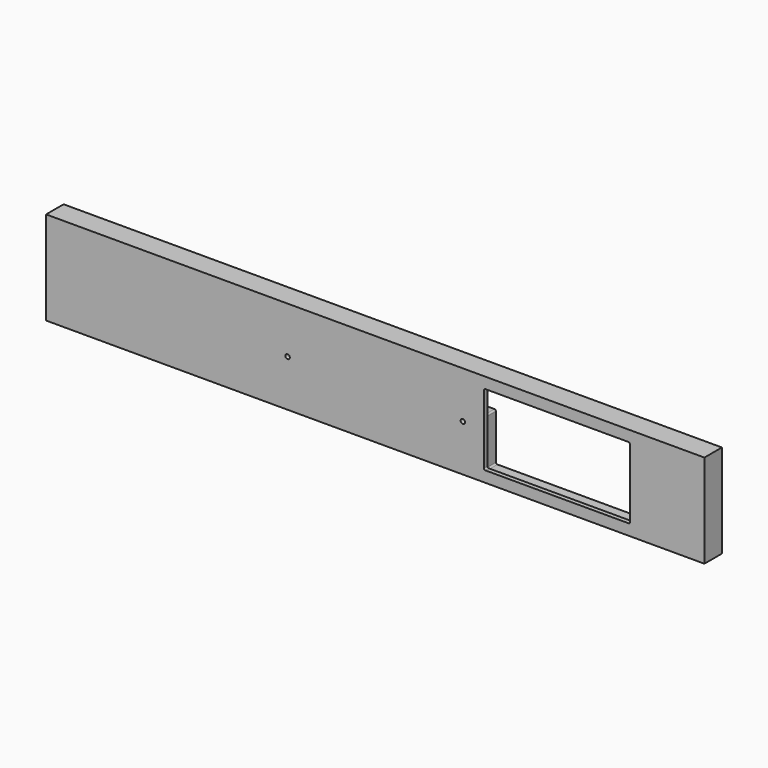
from build123d import *

# Parameters (mm, degrees)
SKETCH_W        = 450.8
SKETCH_H        = 64
SKETCH_R        = 1.5
PAD_DEPTH       = 15
POCKET_DEPTH    = 12
POCKET001_DEPTH = 7.5
SKETCH003_R     = 1.5
HOLE_DEPTH      = 7.5
HOLE_TIPS_R     = 1.5


with BuildPart() as part:
    # Sketch → Pad (new body)
    with BuildSketch(Plane.XZ):
        with Locations((225.4, 32)):
            Rectangle(SKETCH_W, SKETCH_H)
        with Locations((165.4, 32)):
            Circle(SKETCH_R, mode=Mode.SUBTRACT)
        with Locations((285.4, 32)):
            Circle(SKETCH_R, mode=Mode.SUBTRACT)
        with BuildLine():
            Line((300.8, 56.5), (398.8, 56.5))
            ThreePointArc((399.8, 55.5), (399.507107, 56.207107), (398.8, 56.5))
            Line((399.8, 55.5), (399.8, 8.5))
            ThreePointArc((398.8, 7.5), (399.507107, 7.792893), (399.8, 8.5))
            Line((398.8, 7.5), (300.8, 7.5))
            ThreePointArc((299.8, 8.5), (300.092893, 7.792893), (300.8, 7.5))
            Line((299.8, 8.5), (299.8, 55.5))
            ThreePointArc((300.8, 56.5), (300.092893, 56.207107), (299.8, 55.5))
        make_face(mode=Mode.SUBTRACT)
    extrude(amount=PAD_DEPTH)

    # Sketch001 (on DatumPlane) → Pocket (cut)
    with BuildSketch(Plane.XZ):
        with BuildLine():
            Line((297.05, 60.25), (402.55, 60.25))
            ThreePointArc((403.55, 59.25), (403.257107, 59.957107), (402.55, 60.25))
            Line((403.55, 59.25), (403.55, 4.75))
            ThreePointArc((402.55, 3.75), (403.257107, 4.042893), (403.55, 4.75))
            Line((402.55, 3.75), (297.05, 3.75))
            ThreePointArc((296.05, 4.75), (296.342893, 4.042893), (297.05, 3.75))
            Line((296.05, 4.75), (296.05, 59.25))
            ThreePointArc((297.05, 60.25), (296.342893, 59.957107), (296.05, 59.25))
        make_face()
    extrude(amount=POCKET_DEPTH, mode=Mode.SUBTRACT)

    # Sketch002 (on DatumPlane) → Pocket001 (cut)
    with BuildSketch(Plane.XZ):
        with BuildLine():
            Line((21, 51.5), (295.05, 51.5))
            ThreePointArc((295.05, 51.5), (295.757107, 51.792893), (296.05, 52.5))
            Line((296.05, 52.5), (403.55, 52.5))
            ThreePointArc((403.55, 52.5), (403.842893, 51.792893), (404.55, 51.5))
            Line((404.55, 51.5), (429.8, 51.5))
            ThreePointArc((430.8, 50.5), (430.507107, 51.207107), (429.8, 51.5))
            Line((430.8, 50.5), (430.8, 37.5))
            ThreePointArc((429.8, 36.5), (430.507107, 36.792893), (430.8, 37.5))
            Line((429.8, 36.5), (404.55, 36.5))
            ThreePointArc((404.55, 36.5), (403.842893, 36.207107), (403.55, 35.5))
            Line((296.05, 35.5), (403.55, 35.5))
            ThreePointArc((296.05, 35.5), (295.757107, 36.207107), (295.05, 36.5))
            Line((295.05, 36.5), (21, 36.5))
            ThreePointArc((20, 37.5), (20.292893, 36.792893), (21, 36.5))
            Line((20, 37.5), (20, 50.5))
            ThreePointArc((21, 51.5), (20.292893, 51.207107), (20, 50.5))
        make_face()
    extrude(amount=POCKET001_DEPTH, mode=Mode.SUBTRACT)

    # Sketch003 (on DatumPlane) → Hole (cut)
    with BuildSketch(Plane.XZ):
        with Locations((10, 56.5)):
            Circle(SKETCH003_R)
        with Locations((10, 31.5)):
            Circle(SKETCH003_R)
        with Locations((10, 10)):
            Circle(SKETCH003_R)
        with Locations((440.8, 56.5)):
            Circle(SKETCH003_R)
        with Locations((440.8, 31.5)):
            Circle(SKETCH003_R)
        with Locations((440.8, 10)):
            Circle(SKETCH003_R)
    extrude(amount=HOLE_DEPTH, mode=Mode.SUBTRACT)

    # Hole tips → Hole tip 1 section 0
    with BuildSketch(Plane.XZ.offset(7.5), mode=Mode.PRIVATE) as hole_tip_1_s0:
        with Locations((10, 56.5)):
            Circle(HOLE_TIPS_R)
    loft([hole_tip_1_s0.sketch, Vertex(10, -8.401291, 56.5)], mode=Mode.SUBTRACT)

    # Hole tips → Hole tip 2 section 0
    with BuildSketch(Plane.XZ.offset(7.5), mode=Mode.PRIVATE) as hole_tip_2_s0:
        with Locations((10, 31.5)):
            Circle(HOLE_TIPS_R)
    loft([hole_tip_2_s0.sketch, Vertex(10, -8.401291, 31.5)], mode=Mode.SUBTRACT)

    # Hole tips → Hole tip 3 section 0
    with BuildSketch(Plane.XZ.offset(7.5), mode=Mode.PRIVATE) as hole_tip_3_s0:
        with Locations((10, 10)):
            Circle(HOLE_TIPS_R)
    loft([hole_tip_3_s0.sketch, Vertex(10, -8.401291, 10)], mode=Mode.SUBTRACT)

    # Hole tips → Hole tip 4 section 0
    with BuildSketch(Plane.XZ.offset(7.5), mode=Mode.PRIVATE) as hole_tip_4_s0:
        with Locations((440.8, 56.5)):
            Circle(HOLE_TIPS_R)
    loft([hole_tip_4_s0.sketch, Vertex(440.8, -8.401291, 56.5)], mode=Mode.SUBTRACT)

    # Hole tips → Hole tip 5 section 0
    with BuildSketch(Plane.XZ.offset(7.5), mode=Mode.PRIVATE) as hole_tip_5_s0:
        with Locations((440.8, 31.5)):
            Circle(HOLE_TIPS_R)
    loft([hole_tip_5_s0.sketch, Vertex(440.8, -8.401291, 31.5)], mode=Mode.SUBTRACT)

    # Hole tips → Hole tip 6 section 0
    with BuildSketch(Plane.XZ.offset(7.5), mode=Mode.PRIVATE) as hole_tip_6_s0:
        with Locations((440.8, 10)):
            Circle(HOLE_TIPS_R)
    loft([hole_tip_6_s0.sketch, Vertex(440.8, -8.401291, 10)], mode=Mode.SUBTRACT)


solid = part.part
